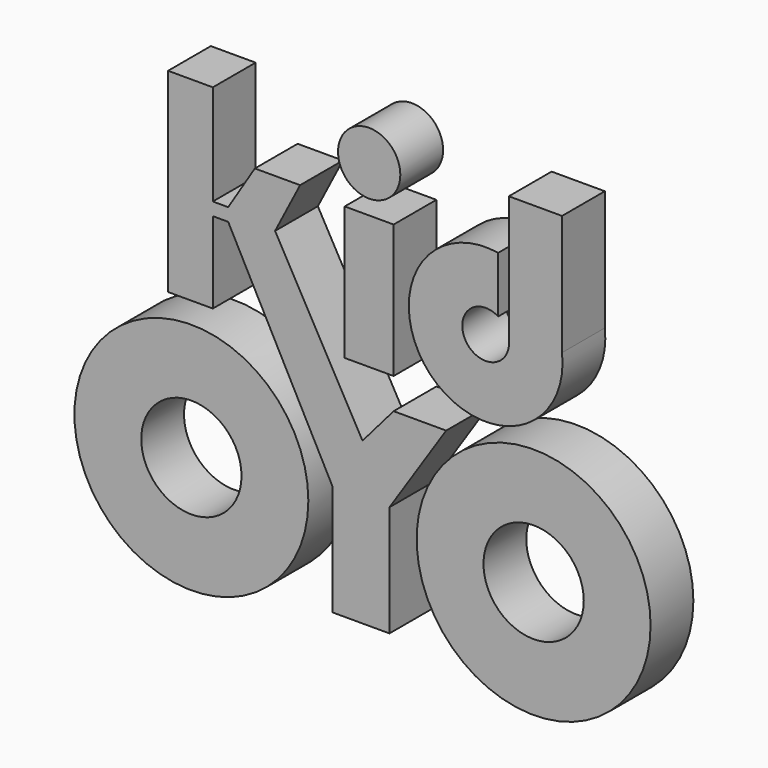
from build123d import *

# Parameters (mm, degrees)
F0_R     = 22.225
F0_R_2   = 9.525
F0_W     = 9.297638
F0_H     = 25.341365
F0_R_3   = 5.919051
F1_DEPTH = 10.16


with BuildPart() as f1:
    # F0 (on Front) → F1 (new body)
    with BuildSketch(Plane.XZ):
        with Locations((-32.512, 1.901878)):
            Circle(F0_R)
        with Locations((-32.512, 1.901878)):
            Circle(F0_R_2, mode=Mode.SUBTRACT)
        with Locations((32.512, 2.186761)):
            Circle(F0_R)
        with Locations((32.512, 2.186761)):
            Circle(F0_R_2, mode=Mode.SUBTRACT)
        Polygon((-5.71733, 5.818821), (-5.71733, -15.283946), (5.123133, -15.283946), (5.123133, 5.818821), (15.893975, 22.147316), (5.912541, 22.147316), (0, 15.28169), (-16.609542, 44.972919), (-11.857279, 54.171722), (-20.450178, 54.171722), (-25.515014, 46.048868), (-28.4371, 46.048868), (-28.4371, 65.146305), (-36.943283, 65.146305), (-36.943283, 28.1427), (-28.4371, 28.1427), (-28.4371, 43.596037), (-25.515014, 43.596037), align=None)
        with Locations((1.263722, 40.699003)):
            Rectangle(F0_W, F0_H)
        with BuildLine():
            ThreePointArc((27.801009, 40.038404), (19.366418, 38.811679), (25.769571, 44.437228))
            Line((25.769571, 44.437228), (25.769571, 55.087111))
            ThreePointArc((25.769571, 55.087111), (12.826718, 30.601974), (37.91168, 42.34012))
            Line((37.91168, 42.34012), (37.91168, 65.211996))
            Line((37.91168, 65.211996), (27.801009, 65.211996))
            Line((27.801009, 65.211996), (27.801009, 40.038404))
        make_face()
        with Locations((1.265871, 62.10893)):
            Circle(F0_R_3)
    extrude(amount=F1_DEPTH)


solid = f1.part
